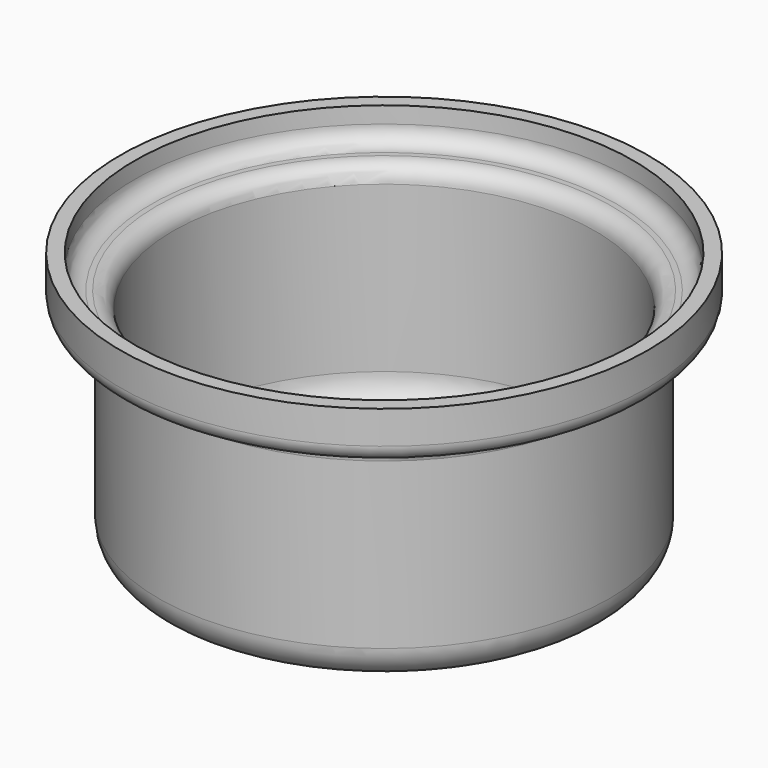
from build123d import *


with BuildPart() as f1:
    # F0 (on Front) → F1 (revolve)
    with BuildSketch(Plane.XZ):
        with BuildLine():
            Line((0, 1.5875), (0, 0))
            Line((0, 0), (18.542, 0))
            ThreePointArc((18.542, 0), (20.787064, 0.929936), (21.717, 3.175))
            Line((21.717, 3.175), (21.717, 19.05))
            ThreePointArc((21.717, 19.05), (22.181968, 20.172532), (23.3045, 20.6375))
            Line((23.3045, 20.6375), (23.8125, 20.6375))
            ThreePointArc((23.8125, 20.6375), (24.935032, 21.102468), (25.4, 22.225))
            Line((25.4, 22.225), (25.4, 25.4))
            Line((25.4, 25.4), (24.003, 25.4))
            Line((24.003, 25.4), (24.003, 23.8125))
            ThreePointArc((24.003, 23.8125), (23.538032, 22.689968), (22.4155, 22.225))
            Line((22.4155, 22.225), (21.9075, 22.225))
            ThreePointArc((21.9075, 22.225), (20.784968, 21.760032), (20.32, 20.6375))
            Line((20.32, 20.6375), (20.32, 4.7625))
            ThreePointArc((20.32, 4.7625), (19.390064, 2.517436), (17.145, 1.5875))
            Line((17.145, 1.5875), (0, 1.5875))
        make_face()
    revolve(axis=Axis((0, 0, 0.79375), (0, 0, -1)))


solid = f1.part
